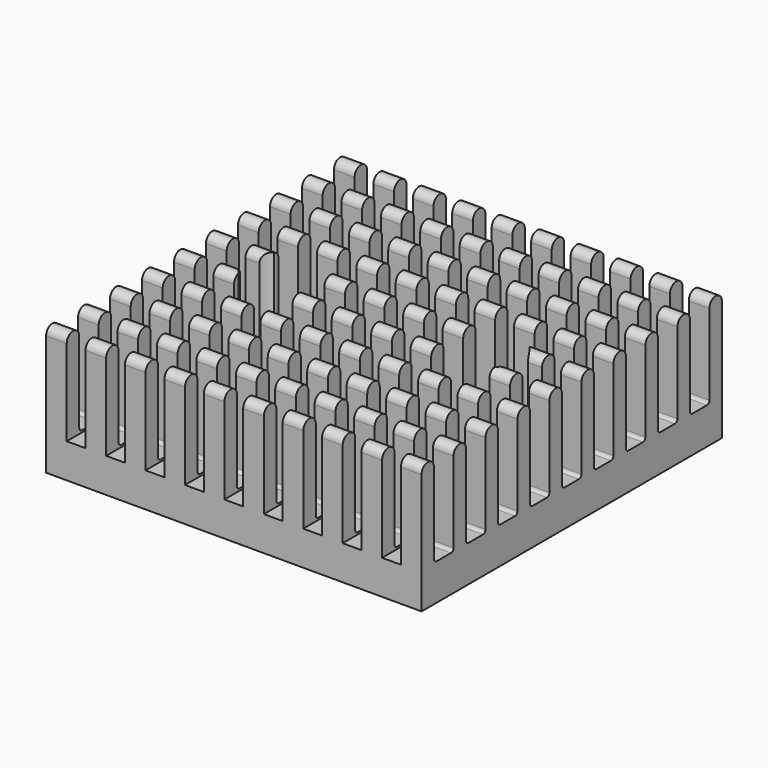
from build123d import *

# Parameters (mm, degrees)
PAD_DEPTH       = 18
FILLET_R        = 0.3
SKETCH001_W     = 10.25
SKETCH001_H     = 1.8
POCKET_DEPTH    = 36.001
SKETCH002_R     = 1.65
HOLE001_DEPTH   = 12.301
SKETCH007_R     = 3.1
POCKET003_DEPTH = 9.001


with BuildPart() as part:
    # Sketch → Pad (new body, symmetric)
    with BuildSketch(Plane.YZ):
        with BuildLine():
            Line((-18, 0), (18, 0))
            Line((18, 11.55), (18, 0))
            ThreePointArc((18, 11.55), (17.25, 12.3), (16.5, 11.55))
            Line((16.5, 11.55), (16.5, 3.500002))
            Line((14.166667, 3.500002), (16.5, 3.500002))
            Line((14.166667, 11.55), (14.166667, 3.500002))
            ThreePointArc((14.166667, 11.55), (13.416667, 12.3), (12.666667, 11.55))
            Line((12.666667, 11.55), (12.666667, 3.500002))
            Line((10.333333, 3.500002), (12.666667, 3.500002))
            Line((10.333333, 11.55), (10.333333, 3.500002))
            ThreePointArc((10.333333, 11.55), (9.583333, 12.3), (8.833333, 11.55))
            Line((8.833333, 11.55), (8.833333, 3.500002))
            Line((6.5, 3.500002), (8.833333, 3.500002))
            Line((6.5, 11.55), (6.5, 3.500002))
            ThreePointArc((6.5, 11.55), (5.749999, 12.3), (5, 11.549998))
            Line((5, 11.549998), (5, 3.5))
            Line((2.666667, 3.5), (5, 3.5))
            Line((2.666667, 11.55), (2.666667, 3.5))
            ThreePointArc((2.666667, 11.55), (1.916667, 12.3), (1.166667, 11.55))
            Line((1.166667, 11.55), (1.166667, 3.5))
            Line((-1.166667, 3.5), (1.166667, 3.5))
            Line((-1.166667, 11.55), (-1.166667, 3.5))
            ThreePointArc((-1.166667, 11.55), (-1.916667, 12.3), (-2.666667, 11.55))
            Line((-2.666667, 11.55), (-2.666667, 3.5))
            Line((-5, 3.5), (-2.666667, 3.5))
            Line((-5, 11.55), (-5, 3.5))
            ThreePointArc((-5, 11.55), (-5.75, 12.3), (-6.5, 11.55))
            Line((-6.5, 11.55), (-6.5, 3.5))
            Line((-8.833333, 3.5), (-6.5, 3.5))
            Line((-8.833333, 11.55), (-8.833333, 3.5))
            ThreePointArc((-8.833333, 11.55), (-9.583333, 12.3), (-10.333333, 11.55))
            Line((-10.333333, 11.55), (-10.333333, 3.5))
            Line((-12.666667, 3.5), (-10.333333, 3.5))
            Line((-12.666667, 11.55), (-12.666667, 3.5))
            ThreePointArc((-12.666667, 11.55), (-13.416667, 12.3), (-14.166667, 11.55))
            Line((-14.166667, 11.55), (-14.166667, 3.5))
            Line((-16.5, 3.5), (-14.166667, 3.5))
            Line((-16.5, 11.55), (-16.5, 3.5))
            ThreePointArc((-16.5, 11.55), (-17.25, 12.3), (-18, 11.55))
            Line((-18, 11.55), (-18, 0))
        make_face()
    extrude(amount=PAD_DEPTH, both=True)

    # Fillet
    fillet_edges = [part.edges().sort_by_distance(p)[0] for p in [
        (0, -14.166667, 3.5),
        (0, -16.5, 3.5),
        (0, -12.666667, 3.5),
        (0, -10.333333, 3.5),
        (0, -6.5, 3.5),
        (0, -2.666667, 3.5),
        (0, 1.166667, 3.5),
        (0, 5, 3.5),
        (0, 8.833333, 3.500002),
        (0, 12.666667, 3.500002),
        (0, 16.5, 3.500002),
        (0, -8.833333, 3.5),
        (0, -5, 3.5),
        (0, -1.166667, 3.5),
        (0, 2.666667, 3.5),
        (0, 6.5, 3.500002),
        (0, 10.333333, 3.500002),
        (0, 14.166667, 3.500002),
    ]]
    fillet(fillet_edges, radius=FILLET_R)

    # Sketch001 (on Face2 of Pad) → Pocket (cut, through all)
    with BuildSketch(Plane(origin=(0, -18, 0), x_dir=(0, 0, -1), z_dir=(0, -1, 0))):
        with Locations((-8.425, 15.12)):
            Rectangle(SKETCH001_W, SKETCH001_H)
        with Locations((-8.425, 11.34)):
            Rectangle(SKETCH001_W, SKETCH001_H)
        with Locations((-8.425, 7.56)):
            Rectangle(SKETCH001_W, SKETCH001_H)
        with Locations((-8.425, 3.78)):
            Rectangle(SKETCH001_W, SKETCH001_H)
        with Locations((-8.425, 0)):
            Rectangle(SKETCH001_W, SKETCH001_H)
        with Locations((-8.425, -3.78)):
            Rectangle(SKETCH001_W, SKETCH001_H)
        with Locations((-8.425, -7.56)):
            Rectangle(SKETCH001_W, SKETCH001_H)
        with Locations((-8.425, -11.34)):
            Rectangle(SKETCH001_W, SKETCH001_H)
        with Locations((-8.425, -15.12)):
            Rectangle(SKETCH001_W, SKETCH001_H)
    extrude(amount=-POCKET_DEPTH, mode=Mode.SUBTRACT)

    # Sketch002 (on Face61 of Pocket) → Hole001 (cut, through all)
    with BuildSketch(Plane.YX):
        with Locations((0, 10)):
            Circle(SKETCH002_R)
        with Locations((0, -10)):
            Circle(SKETCH002_R)
    extrude(amount=-HOLE001_DEPTH, mode=Mode.SUBTRACT)

    # Sketch007 (on Face81 of Hole001) → Pocket003 (cut, through all)
    with BuildSketch(Plane.XY.offset(3.3)):
        with Locations((-10, 0)):
            Circle(SKETCH007_R)
        with Locations((10, 0)):
            Circle(SKETCH007_R)
    extrude(amount=POCKET003_DEPTH, mode=Mode.SUBTRACT)


solid = part.part
